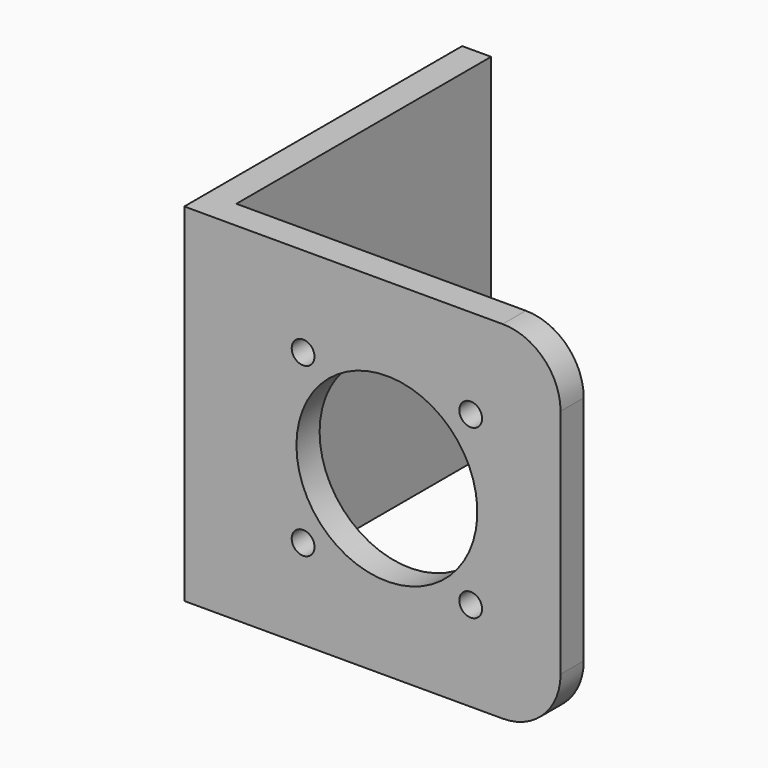
from build123d import *

# Parameters (mm, degrees)
F1_DEPTH = 38.1
F2_R     = 9.921835
F2_R_2   = 1.25
F3_DEPTH = 3.175
F4_R     = 6.35


with BuildPart() as f1:
    # F0 (on Top) → F1 (new body)
    with BuildSketch(Plane.XY):
        Polygon((0, 38.1), (0, 0), (41.275, 0), (41.275, 3.175), (3.175, 3.175), (3.175, 38.1), align=None)
    extrude(amount=F1_DEPTH)

    # F2 (on face) → F3 (cut, through all)
    with BuildSketch(Plane(origin=(0, 3.175, 0), x_dir=(-1, 0, 0), z_dir=(0, 1, 0))):
        with Locations((-22.225, 19.05)):
            Circle(F2_R)
        with Locations((-13.032612, 9.857612)):
            Circle(F2_R_2)
        with Locations((-31.417388, 28.242388)):
            Circle(F2_R_2)
        with Locations((-31.417388, 9.857612)):
            Circle(F2_R_2)
        with Locations((-13.032612, 28.242388)):
            Circle(F2_R_2)
    extrude(amount=-F3_DEPTH, mode=Mode.SUBTRACT)

    # F4
    f4_edges = [f1.edges().sort_by_distance(p)[0] for p in [
        (41.275, 1.5875, 38.1),
        (41.275, 1.5875, 0),
    ]]
    fillet(f4_edges, radius=F4_R)


solid = f1.part
